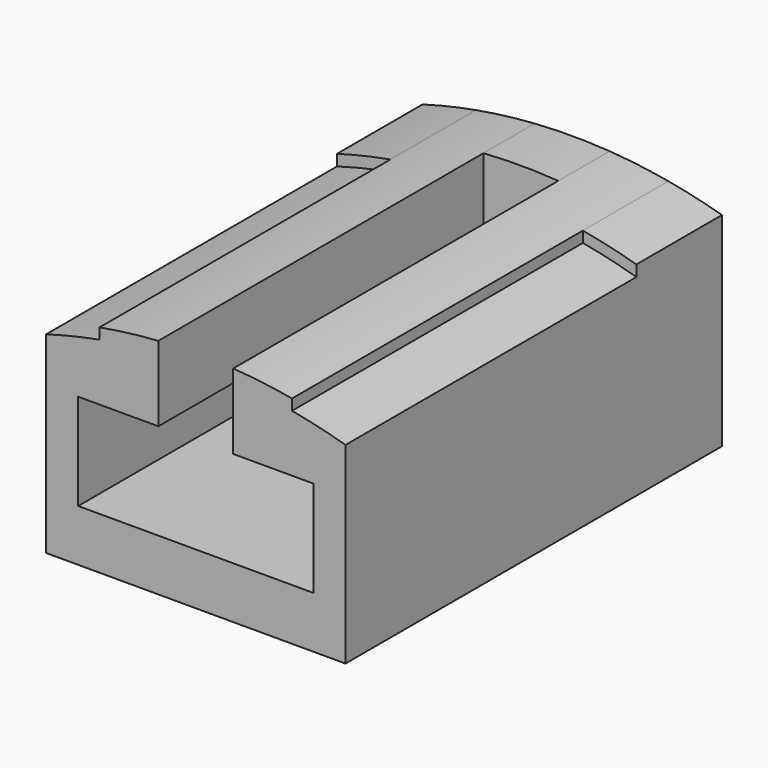
from build123d import *

# Parameters (mm, degrees)
F1_DEPTH = 22
F2_DEPTH = 5
F3_DEPTH = 5
F4_DEPTH = 3


with BuildPart() as f1:
    # F0 (on Front) → F1 (new body)
    with BuildSketch(Plane.XZ):
        with BuildLine():
            Line((4.5, 24.591665), (4.5, 25.099801))
            ThreePointArc((4.5, 25.099801), (3.129623, 25.307222), (1.75, 25.43988))
            Line((1.75, 25.43988), (1.75, 21.921448))
            Line((1.75, 21.921448), (2, 21.921448))
            Line((2, 21.921448), (5.499875, 21.921448))
            Line((5.499875, 21.921448), (5.499875, 17.421448))
            Line((5.499875, 17.421448), (0, 17.421448))
            Line((0, 17.421448), (-5.499875, 17.421448))
            Line((-5.499875, 17.421448), (-5.499875, 21.921448))
            Line((-5.499875, 21.921448), (-2, 21.921448))
            Line((-2, 21.921448), (-1.75, 21.921448))
            Line((-1.75, 21.921448), (-1.75, 25.43988))
            ThreePointArc((-1.75, 25.43988), (-3.129623, 25.307222), (-4.5, 25.099801))
            Line((-4.5, 25.099801), (-4.5, 24.591665))
            ThreePointArc((-4.5, 24.591665), (-5.757605, 24.327967), (-7, 24))
            Line((-7, 24), (-7, 15))
            Line((-7, 15), (0, 15))
            Line((0, 15), (7, 15))
            Line((7, 15), (7, 24))
            ThreePointArc((7, 24), (5.757605, 24.327967), (4.5, 24.591665))
        make_face()
    extrude(amount=F1_DEPTH)

    # F0 (on Front) → F2 (join)
    with BuildSketch(Plane.XZ):
        with BuildLine():
            Line((-4.5, 24.591665), (-4.5, 25.099801))
            ThreePointArc((-4.5, 25.099801), (-5.757293, 24.841569), (-7, 24.5204))
            Line((-7, 24.5204), (-7, 24))
            ThreePointArc((-7, 24), (-5.757605, 24.327967), (-4.5, 24.591665))
        make_face()
    extrude(amount=F2_DEPTH)

    # F0 (on Front) → F3 (join)
    with BuildSketch(Plane.XZ):
        with BuildLine():
            Line((7, 24), (7, 24.5204))
            ThreePointArc((7, 24.5204), (5.757293, 24.841569), (4.5, 25.099801))
            Line((4.5, 25.099801), (4.5, 24.591665))
            ThreePointArc((4.5, 24.591665), (5.757605, 24.327967), (7, 24))
        make_face()
    extrude(amount=F3_DEPTH)

    # F0 (on Front) → F4 (join)
    with BuildSketch(Plane.XZ):
        with BuildLine():
            Line((1.75, 21.921448), (1.75, 25.43988))
            ThreePointArc((1.75, 25.43988), (0, 25.5), (-1.75, 25.43988))
            Line((-1.75, 25.43988), (-1.75, 21.921448))
            Line((-1.75, 21.921448), (-2, 21.921448))
            Line((-2, 21.921448), (-5.499875, 21.921448))
            Line((-5.499875, 21.921448), (-5.499875, 17.421448))
            Line((-5.499875, 17.421448), (0, 17.421448))
            Line((0, 17.421448), (5.499875, 17.421448))
            Line((5.499875, 17.421448), (5.499875, 21.921448))
            Line((5.499875, 21.921448), (2, 21.921448))
            Line((2, 21.921448), (1.75, 21.921448))
        make_face()
    extrude(amount=F4_DEPTH)


solid = f1.part
